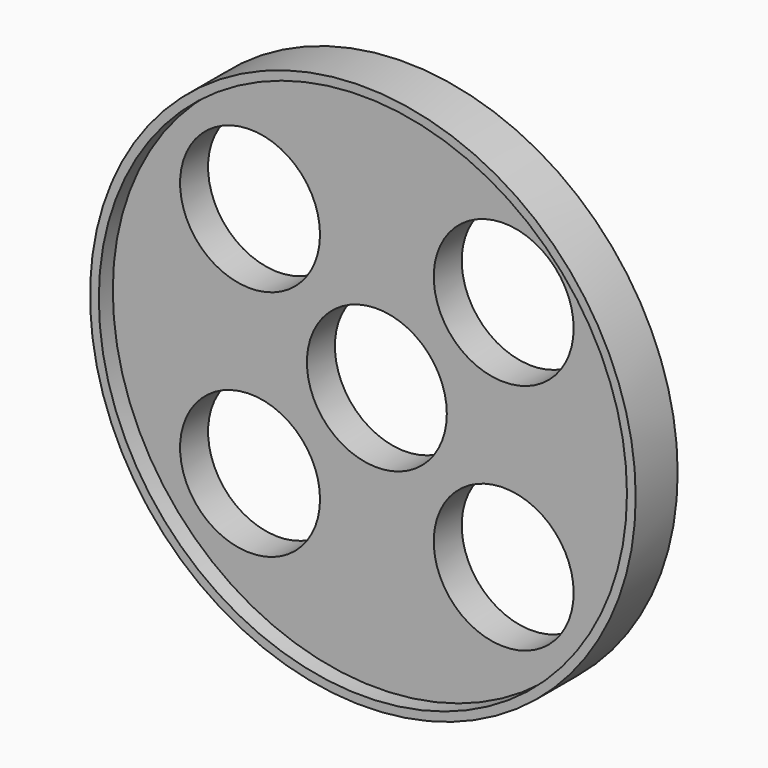
from build123d import *

# Parameters (mm, degrees)
F0_R     = 75.5
F0_R_2   = 20
F1_DEPTH = 10
F0_R_3   = 78
F2_DEPTH = 15


with BuildPart() as f1:
    # F0 (on Front) → F1 (new body)
    with BuildSketch(Plane.XZ):
        Circle(F0_R)
        with Locations((-36.258319, -33.303391)):
            Circle(F0_R_2, mode=Mode.SUBTRACT)
        with Locations((36.258319, -33.303391)):
            Circle(F0_R_2, mode=Mode.SUBTRACT)
        with Locations((-36.258319, 33.303391)):
            Circle(F0_R_2, mode=Mode.SUBTRACT)
        Circle(F0_R_2, mode=Mode.SUBTRACT)
        with Locations((36.258319, 33.303391)):
            Circle(F0_R_2, mode=Mode.SUBTRACT)
    extrude(amount=F1_DEPTH)

    # F0 (on Front) → F2 (join)
    with BuildSketch(Plane.XZ):
        Circle(F0_R_3)
        Circle(F0_R, mode=Mode.SUBTRACT)
    extrude(amount=F2_DEPTH)


solid = f1.part
